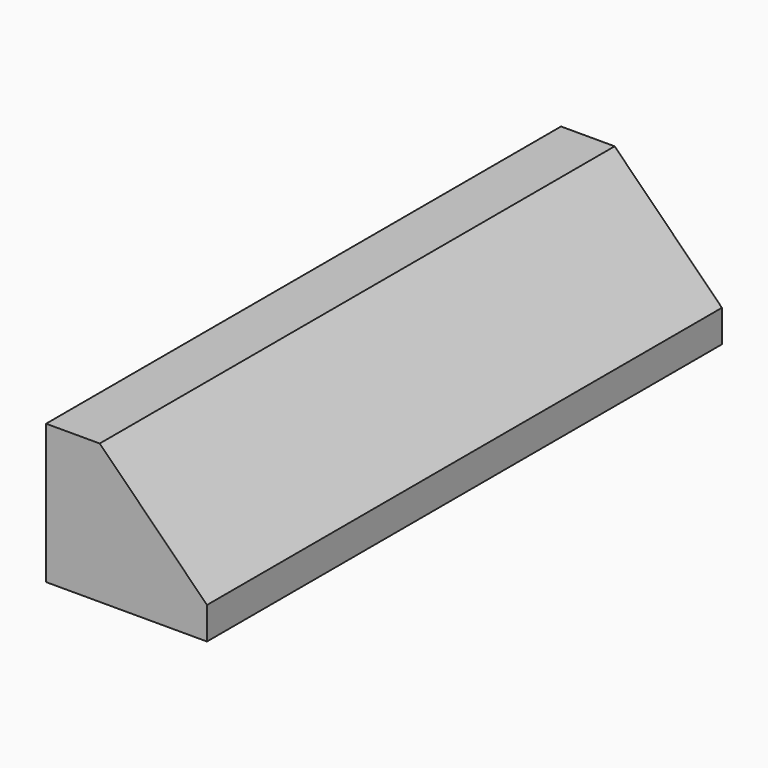
from build123d import *

# Parameters (mm, degrees)
F0_W     = 15.24
F0_H     = 3.302
F1_DEPTH = 3.81
F2_SIZE  = 2.54


with BuildPart() as f1:
    # F0 (on Right) → F1 (new body)
    with BuildSketch(Plane.YZ):
        with Locations((0, -0.163544)):
            Rectangle(F0_W, F0_H)
    extrude(amount=F1_DEPTH)

    # F2
    f2_edges = [f1.edges().sort_by_distance(p)[0] for p in [
        (3.81, 0, 1.487456),
    ]]
    chamfer(f2_edges, length=F2_SIZE)


solid = f1.part
